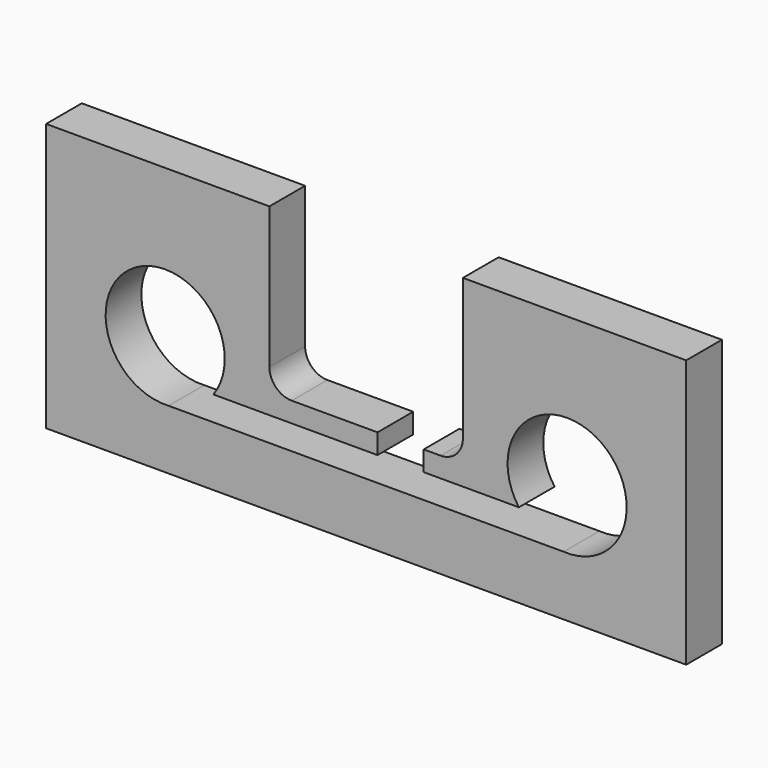
from build123d import *

# Parameters (mm, degrees)
F0_W     = 273.05
F0_H     = 114.3
F1_DEPTH = 19.05
F2_R     = 25.4
F3_DEPTH = 25.4
F5_DEPTH = 25.4
F7_DEPTH = 25.4


with BuildPart() as f1:
    # F0 (on Front) → F1 (new body)
    with BuildSketch(Plane.XZ):
        with Locations((136.525, 57.15)):
            Rectangle(F0_W, F0_H)
    extrude(amount=F1_DEPTH)

    # F2 (on face) → F3 (cut)
    with BuildSketch(Plane.XZ.offset(19.05)):
        with Locations((50.8, 50.8)):
            Circle(F2_R)
        with Locations((222.25, 50.8)):
            Circle(F2_R)
    extrude(amount=-F3_DEPTH, mode=Mode.SUBTRACT)

    # F4 (on face) → F5 (cut)
    with BuildSketch(Plane.XZ.offset(19.05)):
        with BuildLine():
            Line((177.8, 114.3), (95.25, 114.3))
            Line((95.25, 114.3), (95.25, 53.975))
            ThreePointArc((95.25, 53.975), (98.039808, 47.239808), (104.775, 44.45))
            Line((104.775, 44.45), (168.275, 44.45))
            ThreePointArc((168.275, 44.45), (175.010192, 47.239808), (177.8, 53.975))
            Line((177.8, 53.975), (177.8, 114.3))
        make_face()
    extrude(amount=-F5_DEPTH, mode=Mode.SUBTRACT)

    # F6 (on face) → F7 (cut)
    with BuildSketch(Plane.XZ.offset(19.05)):
        Polygon((71.372664, 35.902836), (49.335122, 25.442277), (223.714878, 25.442277), (201.677336, 35.902836), (161.071733, 35.902836), (161.071733, 44.45), (141.377911, 44.45), (141.377911, 35.902836), align=None)
    extrude(amount=-F7_DEPTH, mode=Mode.SUBTRACT)


solid = f1.part
